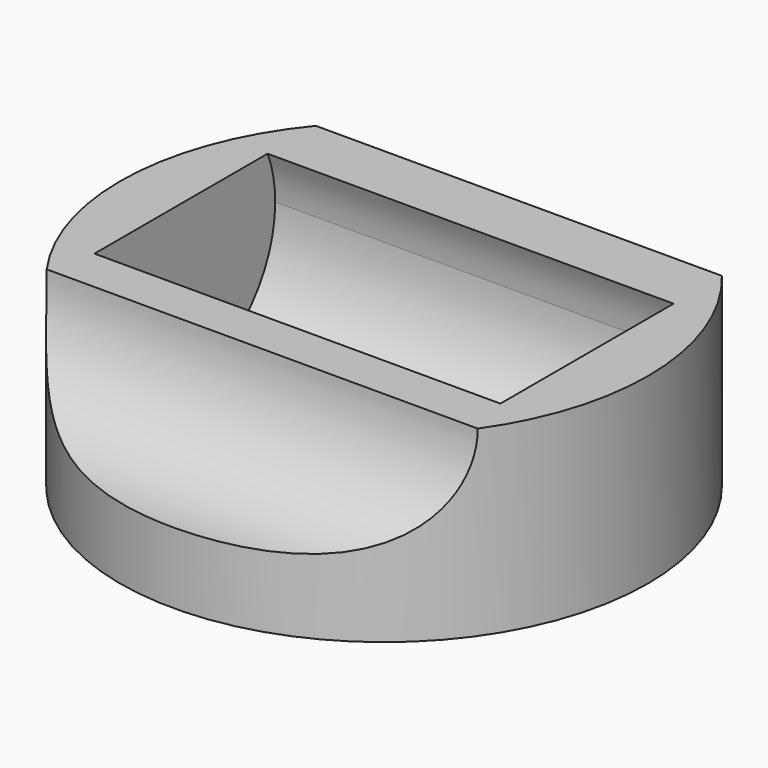
from build123d import *

# Parameters (mm, degrees)
F0_R      = 16.51
F1_DEPTH  = 11.43
F3_DEPTH  = 12.7
F5_DEPTH  = 3.81
F7_DEPTH  = 11.43
F9_DEPTH  = 25.4
F11_DEPTH = 25.4


with BuildPart() as f1:
    # F0 (on Top) → F1 (new body)
    with BuildSketch(Plane.XY):
        Circle(F0_R)
    extrude(amount=F1_DEPTH)

    # F2 (on Right) → F3 (cut, symmetric)
    with BuildSketch(Plane.YZ):
        with BuildLine():
            ThreePointArc((0, 1.162998), (5.208549, 3.32045), (7.366, 8.528998))
            ThreePointArc((7.366, 8.528998), (-5.208549, 13.737547), (0, 1.162998))
        make_face()
    extrude(amount=F3_DEPTH, both=True, mode=Mode.SUBTRACT)

    # F4 (on Top) → F5 (cut)
    with BuildSketch(Plane.XY):
        with BuildLine():
            ThreePointArc((0, 9.0678), (3.592102, 10.555698), (5.08, 14.1478))
            ThreePointArc((5.08, 14.1478), (-3.592102, 17.739902), (0, 9.0678))
        make_face()
    extrude(amount=F5_DEPTH, mode=Mode.SUBTRACT)

    # F6 (on Top) → F7 (cut, through all)
    with BuildSketch(Plane.XY):
        with BuildLine():
            ThreePointArc((0, 12.7508), (0.987828, 13.159972), (1.397, 14.1478))
            ThreePointArc((1.397, 14.1478), (-0.987828, 15.135628), (0, 12.7508))
        make_face()
    extrude(amount=F7_DEPTH, mode=Mode.SUBTRACT)

    # F8 (on Right) → F9 (cut, symmetric)
    with BuildSketch(Plane.YZ):
        with BuildLine():
            ThreePointArc((-16.51, 4.445), (-11.570859, 6.490859), (-9.525, 11.43))
            ThreePointArc((-9.525, 11.43), (-21.449141, 16.369141), (-16.51, 4.445))
        make_face()
    extrude(amount=F9_DEPTH, both=True, mode=Mode.SUBTRACT)

    # F10 (on Right) → F11 (cut, symmetric)
    with BuildSketch(Plane.YZ):
        with BuildLine():
            ThreePointArc((16.51, 4.519911), (22.094443, 6.142438), (24.515244, 11.43))
            ThreePointArc((24.515244, 11.43), (12.966045, 16.717562), (16.51, 4.519911))
        make_face()
    extrude(amount=F11_DEPTH, both=True, mode=Mode.SUBTRACT)


solid = f1.part
